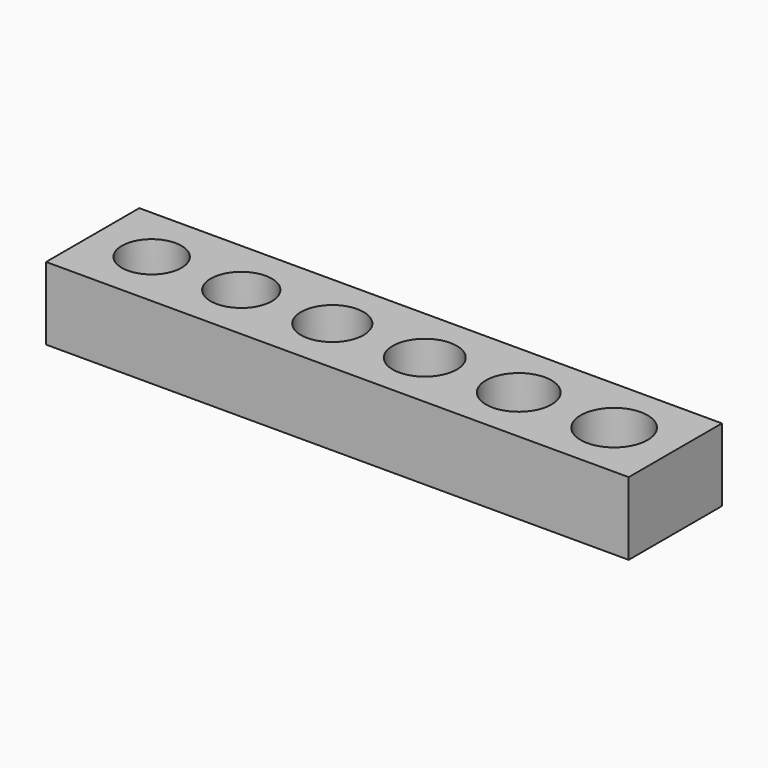
from build123d import *

# Parameters (mm, degrees)
F0_W     = 40
F0_H     = 8
F1_DEPTH = 5
F2_R     = 2.05
F2_R_2   = 2.1
F2_R_3   = 2.15
F2_R_4   = 2.2
F2_R_5   = 2.25
F2_R_6   = 2.3
F3_DEPTH = 3


with BuildPart() as f1:
    # F0 (on Top) → F1 (new body)
    with BuildSketch(Plane.XY):
        with Locations((20, -4)):
            Rectangle(F0_W, F0_H)
    extrude(amount=F1_DEPTH)

    # F2 (on face) → F3 (cut)
    with BuildSketch(Plane.XY.offset(5)):
        with Locations((4.05, -4)):
            Circle(F2_R)
        with Locations((10.2, -4)):
            Circle(F2_R_2)
        with Locations((16.45, -4)):
            Circle(F2_R_3)
        with Locations((22.8, -4)):
            Circle(F2_R_4)
        with Locations((29.25, -4)):
            Circle(F2_R_5)
        with Locations((35.8, -4)):
            Circle(F2_R_6)
    extrude(amount=-F3_DEPTH, mode=Mode.SUBTRACT)


solid = f1.part
